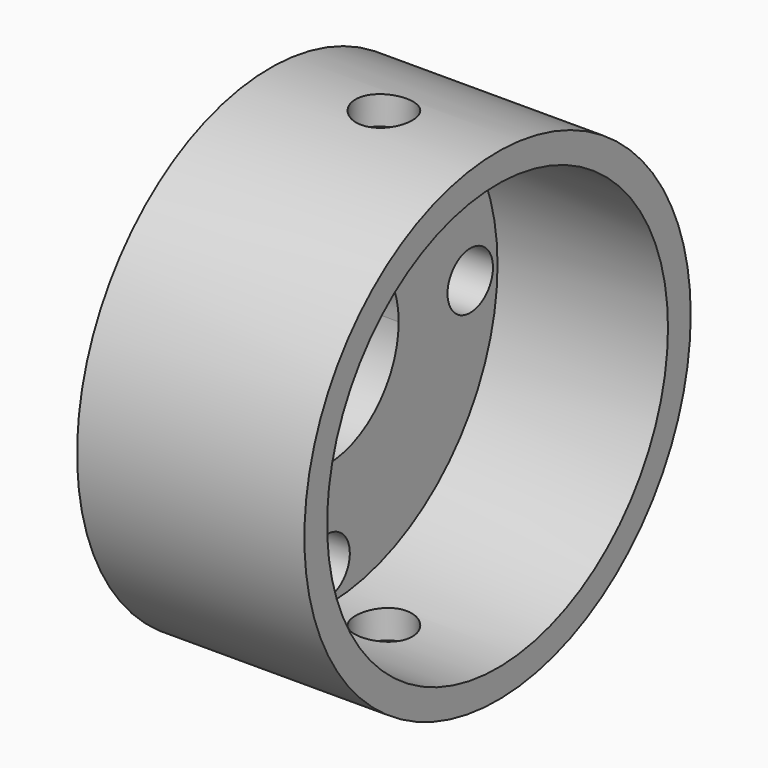
from build123d import *

# Parameters (mm, degrees)
F0_R     = 10.795
F0_R_2   = 9.525
F1_DEPTH = 10.16
F2_DEPTH = 2.54
F4_DEPTH = 25.4
F5_DEPTH = 25.4
F6_R     = 1.27
F7_DEPTH = 25.4


with BuildPart() as f1:
    # F0 (on Right) → F1 (new body)
    with BuildSketch(Plane.YZ):
        Circle(F0_R)
        Circle(F0_R_2, mode=Mode.SUBTRACT)
    extrude(amount=F1_DEPTH)

    # F0 (on Right) → F2 (join)
    with BuildSketch(Plane.YZ):
        Circle(F0_R_2)
    extrude(amount=F2_DEPTH)

    # F3 (on Top) → F4 (cut)
    with BuildSketch(Plane.XY):
        with BuildLine():
            ThreePointArc((3.81, 0), (5.08, -1.27), (6.35, 0))
            ThreePointArc((6.35, 0), (5.08, 1.27), (3.81, 0))
        make_face()
    extrude(amount=-F4_DEPTH, mode=Mode.SUBTRACT)

    # F3 (on Top) → F5 (cut)
    with BuildSketch(Plane.XY):
        with BuildLine():
            ThreePointArc((3.81, 0), (5.08, -1.27), (6.35, 0))
            ThreePointArc((6.35, 0), (5.08, 1.27), (3.81, 0))
        make_face()
    extrude(amount=F5_DEPTH, mode=Mode.SUBTRACT)

    # F6 (on face) → F7 (cut)
    with BuildSketch(Plane(origin=(0, 0, 0), x_dir=(0, -1, 0), z_dir=(-1, 0, 0))):
        with BuildLine():
            ThreePointArc((1.27, 8.001), (-0.8980256121, 8.8990256121), (0, 6.731))
            ThreePointArc((0, 6.731), (0.8980256121, 7.1029743879), (1.27, 8.001))
        make_face()
        with Locations((-8.001, 0)):
            Circle(F6_R)
        with BuildLine():
            ThreePointArc((1.27, -8.001), (0.8980256121, -7.1029743879), (0, -6.731))
            ThreePointArc((0, -6.731), (-0.8980256121, -8.8990256121), (1.27, -8.001))
        make_face()
        with BuildLine():
            ThreePointArc((9.271, 0), (8.001, 1.27), (6.731, 0))
            ThreePointArc((6.731, 0), (8.001, -1.27), (9.271, 0))
        make_face()
        with BuildLine():
            Line((0, 0), (4.0005, 0))
            ThreePointArc((4.0005, 0), (2.8287806781, 2.8287806781), (0, 4.0005))
            Line((0, 4.0005), (0, 0))
        make_face()
        with BuildLine():
            Line((0, 0), (0, 4.0005))
            ThreePointArc((0, 4.0005), (-2.8287806781, 2.8287806781), (-4.0005, 0))
            Line((-4.0005, 0), (0, 0))
        make_face()
        with BuildLine():
            ThreePointArc((-4.0005, 0), (-2.8287806781, -2.8287806781), (0, -4.0005))
            Line((0, -4.0005), (0, 0))
            Line((0, 0), (-4.0005, 0))
        make_face()
        with BuildLine():
            ThreePointArc((0, -4.0005), (2.8287806781, -2.8287806781), (4.0005, 0))
            Line((4.0005, 0), (0, 0))
            Line((0, 0), (0, -4.0005))
        make_face()
    extrude(amount=-F7_DEPTH, mode=Mode.SUBTRACT)


solid = f1.part
